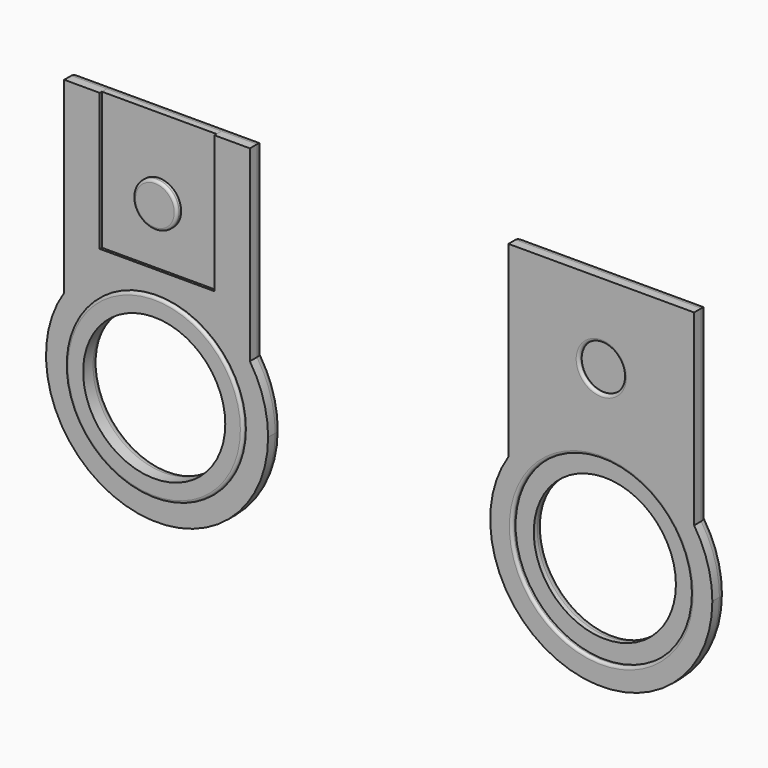
from build123d import *

# Parameters (mm, degrees)
F0_R     = 2.525
F0_R_2   = 10.05
F0_R_3   = 10
F1_DEPTH = 2
F0_R_4   = 2.475
F2_DEPTH = 1.7
F3_DEPTH = 2.3
F4_DEPTH = 1.6
F5_R     = 0.3
F5_2_R   = 0.3
F0_R_5   = 8
F6_DEPTH = 2.4
F7_DEPTH = 1.5
F8_R     = 1
F8_2_R   = 1
F8_3_R   = 1
F9_R     = 0.3
F10_R    = 0.3


with BuildPart() as f1:
    # F0 (on Front) → F1 (new body)
    with BuildSketch(Plane.XZ):
        with BuildLine():
            Line((60.45, 7.88592), (39.55, 7.88592))
            Line((39.55, 7.88592), (39.55, -13.215056))
            ThreePointArc((39.55, -13.215056), (50, -7.574174), (60.45, -13.215056))
            Line((60.45, -13.215056), (60.45, 7.88592))
        make_face()
        with Locations((50, -1.049174)):
            Circle(F0_R, mode=Mode.SUBTRACT)
        with BuildLine():
            ThreePointArc((60.45, -13.215056), (50, -7.574174), (39.55, -13.215056))
            ThreePointArc((39.55, -13.215056), (46.420545, -32.050714), (62.5, -20.074174))
            ThreePointArc((62.5, -20.074174), (61.97654, -16.494719), (60.45, -13.215056))
        make_face()
        with Locations((50, -20.074174)):
            Circle(F0_R_2, mode=Mode.SUBTRACT)
        with BuildLine():
            Line((10.45, 7.88592), (6.45, 7.88592))
            Line((6.45, 7.88592), (6.45, -7.574174))
            Line((6.45, -7.574174), (0, -7.574174))
            ThreePointArc((0, -7.574174), (5.937635, -9.074425), (10.45, -13.215056))
            Line((10.45, -13.215056), (10.45, 7.88592))
        make_face()
        with BuildLine():
            ThreePointArc((10.45, -13.215056), (5.937635, -9.074425), (0, -7.574174))
            ThreePointArc((0, -7.574174), (-5.937635, -9.074425), (-10.45, -13.215056))
            ThreePointArc((-10.45, -13.215056), (-3.579455, -32.050714), (12.5, -20.074174))
            ThreePointArc((12.5, -20.074174), (11.97654, -16.494719), (10.45, -13.215056))
        make_face()
        with Locations((0, -20.074174)):
            Circle(F0_R_3, mode=Mode.SUBTRACT)
        with BuildLine():
            Line((-6.45, -7.574174), (-6.45, 7.88592))
            Line((-6.45, 7.88592), (-10.45, 7.88592))
            Line((-10.45, 7.88592), (-10.45, -13.215056))
            ThreePointArc((-10.45, -13.215056), (-5.937635, -9.074425), (0, -7.574174))
            Line((0, -7.574174), (-6.45, -7.574174))
        make_face()
    extrude(amount=F1_DEPTH)

    # F0 (on Front) → F4 (join)
    with BuildSketch(Plane.XZ):
        with Locations((50, -1.049174)):
            Circle(F0_R)
    extrude(amount=F4_DEPTH)

    # F5
    f5_edges = [f1.edges().sort_by_distance(p)[0] for p in [
        (47.475, -2, -1.049174),
    ]]
    fillet(f5_edges, radius=F5_R)

    # F0 (on Front) → F7 (join)
    with BuildSketch(Plane.XZ):
        with Locations((50, -20.074174)):
            Circle(F0_R_2)
        with Locations((50, -20.074174)):
            Circle(F0_R_5, mode=Mode.SUBTRACT)
    extrude(amount=F7_DEPTH)

    # F8
    f8_edges = [f1.edges().sort_by_distance(p)[0] for p in [
        (39.55, 0, -2.664568),
        (0, 0, -32.574174),
        (10.45, 0, -2.664568),
        (8.45, 0, 7.88592),
        (-8.45, 0, 7.88592),
        (-10.45, 0, -2.664568),
        (50, 0, -32.574174),
        (60.45, 0, -2.664568),
        (50, 0, 7.88592),
        (42, 0, -20.074174),
    ]]
    fillet(f8_edges, radius=F8_R)

    # F9
    f9_edges = [f1.edges().sort_by_distance(p)[0] for p in [
        (39.95, -2, -20.074174),
    ]]
    fillet(f9_edges, radius=F9_R)


with BuildPart() as f2:
    # F0 (on Front) → F2 (new body)
    with BuildSketch(Plane.XZ):
        Polygon((6.45, 7.88592), (-6.45, 7.88592), (-6.45, -7.574174), (0, -7.574174), (6.45, -7.574174), align=None)
        with Locations((0, -1.049174)):
            Circle(F0_R_4, mode=Mode.SUBTRACT)
    extrude(amount=F2_DEPTH)

    # F0 (on Front) → F3 (join)
    with BuildSketch(Plane.XZ):
        with Locations((0, -1.049174)):
            Circle(F0_R_4)
    extrude(amount=F3_DEPTH)

    # F5#2
    f5_2_edges = [f2.edges().sort_by_distance(p)[0] for p in [
        (-2.475, -2.3, -1.049174),
    ]]
    fillet(f5_2_edges, radius=F5_2_R)

    # F8#2
    f8_2_edges = [f2.edges().sort_by_distance(p)[0] for p in [
        (0, 0, 7.88592),
    ]]
    fillet(f8_2_edges, radius=F8_2_R)


with BuildPart() as f6:
    # F0 (on Front) → F6 (new body)
    with BuildSketch(Plane.XZ):
        with Locations((0, -20.074174)):
            Circle(F0_R_3)
        with Locations((0, -20.074174)):
            Circle(F0_R_5, mode=Mode.SUBTRACT)
    extrude(amount=F6_DEPTH)

    # F8#3
    f8_3_edges = [f6.edges().sort_by_distance(p)[0] for p in [
        (-8, 0, -20.074174),
    ]]
    fillet(f8_3_edges, radius=F8_3_R)

    # F10
    f10_edges = [f6.edges().sort_by_distance(p)[0] for p in [
        (-10, -2.4, -20.074174),
    ]]
    fillet(f10_edges, radius=F10_R)


solid = Compound([f1.part, f2.part, f6.part])
